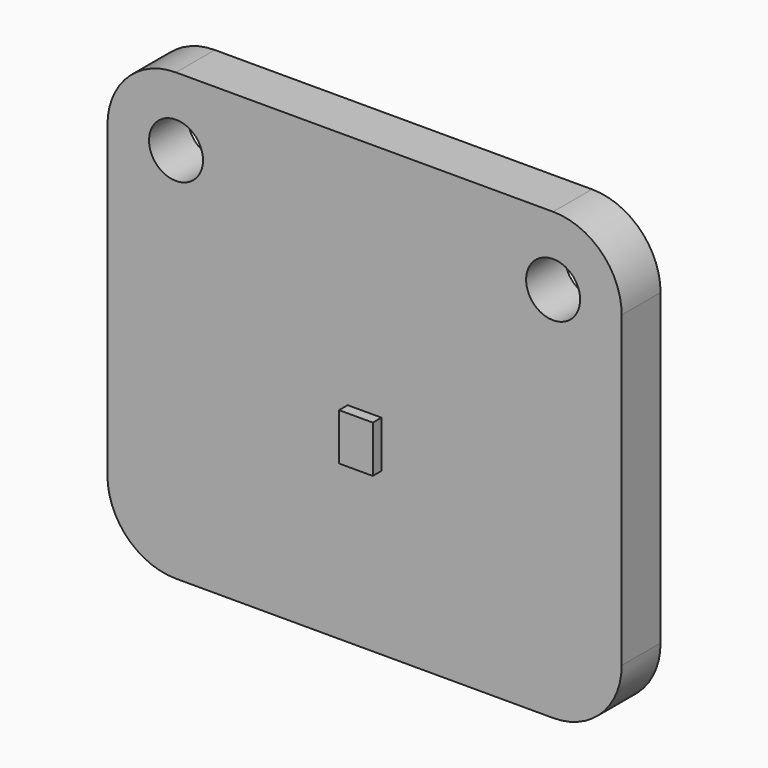
from build123d import *

# Parameters (mm, degrees)
F0_W     = 19.05
F0_H     = 16.51
F0_W_2   = 1.25
F0_H_2   = 1.74
F0_R     = 1
F1_DEPTH = 1.8
F2_DEPTH = 2.2
F3_R     = 2.54


with BuildPart() as f1:
    # F0 (on Front) → F1 (new body)
    with BuildSketch(Plane.XZ):
        Rectangle(F0_W, F0_H)
        with Locations((0, -1.397)):
            Rectangle(F0_W_2, F0_H_2, mode=Mode.SUBTRACT)
        with Locations((-6.985, 5.715)):
            Circle(F0_R, mode=Mode.SUBTRACT)
        with Locations((6.985, 5.715)):
            Circle(F0_R, mode=Mode.SUBTRACT)
    extrude(amount=F1_DEPTH)

    # F0 (on Front) → F2 (join)
    with BuildSketch(Plane.XZ):
        with Locations((0, -1.397)):
            Rectangle(F0_W_2, F0_H_2)
    extrude(amount=F2_DEPTH)

    # F3
    f3_edges = [f1.edges().sort_by_distance(p)[0] for p in [
        (-9.525, -0.9, 8.255),
        (9.525, -0.9, 8.255),
        (9.525, -0.9, -8.255),
        (-9.525, -0.9, -8.255),
    ]]
    fillet(f3_edges, radius=F3_R)


solid = f1.part
